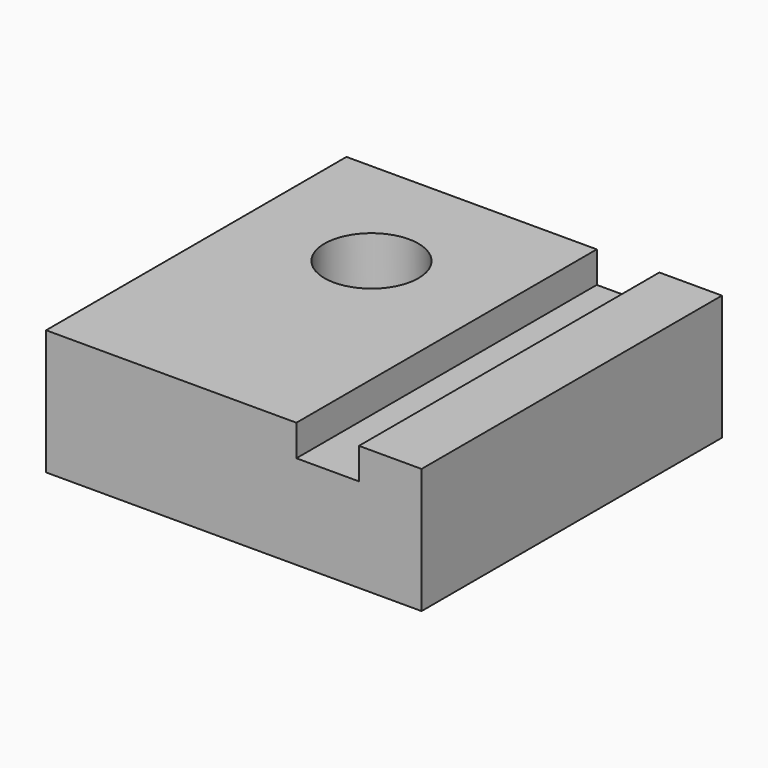
from build123d import *

# Parameters (mm, degrees)
F1_DEPTH = 76.2
F2_R     = 9.525
F3_DEPTH = 76.2


with BuildPart() as f1:
    # F0 (on Front) → F1 (new body)
    with BuildSketch(Plane.XZ):
        Polygon((-50.8, 0), (25.4, 0), (25.4, 25.4), (12.7, 25.4), (12.7, 19.05), (0, 19.05), (0, 25.4), (-50.8, 25.4), align=None)
    extrude(amount=F1_DEPTH)

    # F2 (on Top) → F3 (cut)
    with BuildSketch(Plane.XY):
        with Locations((-25.4, -25.4)):
            Circle(F2_R)
    extrude(amount=F3_DEPTH, mode=Mode.SUBTRACT)


solid = f1.part
